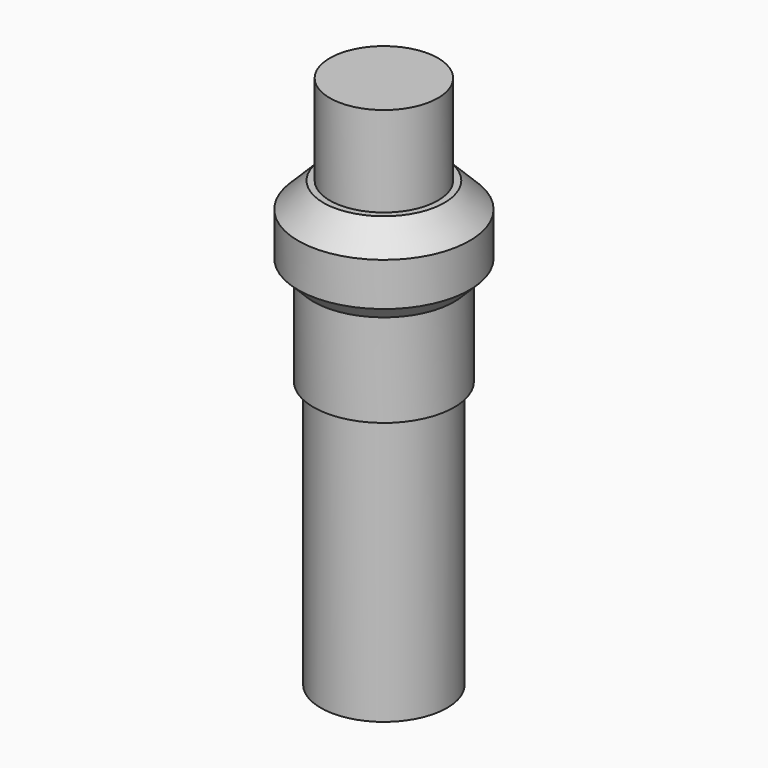
from build123d import *

# Parameters (mm, degrees)
F0_R     = 17.5
F1_DEPTH = 75
F4_R     = 15
F5_DEPTH = 25


with BuildPart() as f1:
    # F0 (on Top) → F1 (new body)
    with BuildSketch(Plane.XY):
        Circle(F0_R)
    extrude(amount=F1_DEPTH)

    # F2 (on Front) → F3 (revolve)
    with BuildSketch(Plane.XZ):
        Polygon((-19.5, 74), (0, 74), (0, 123), (-16.75, 123), (-23.75, 116), (-23.75, 104), (-19.5, 99.75), align=None)
    revolve(axis=Axis((0, 0, 40.698601), (0, 0, 1)))

    # F4 (on face) → F5 (join)
    with BuildSketch(Plane.XY.offset(123)):
        Circle(F4_R)
    extrude(amount=F5_DEPTH)


solid = f1.part
